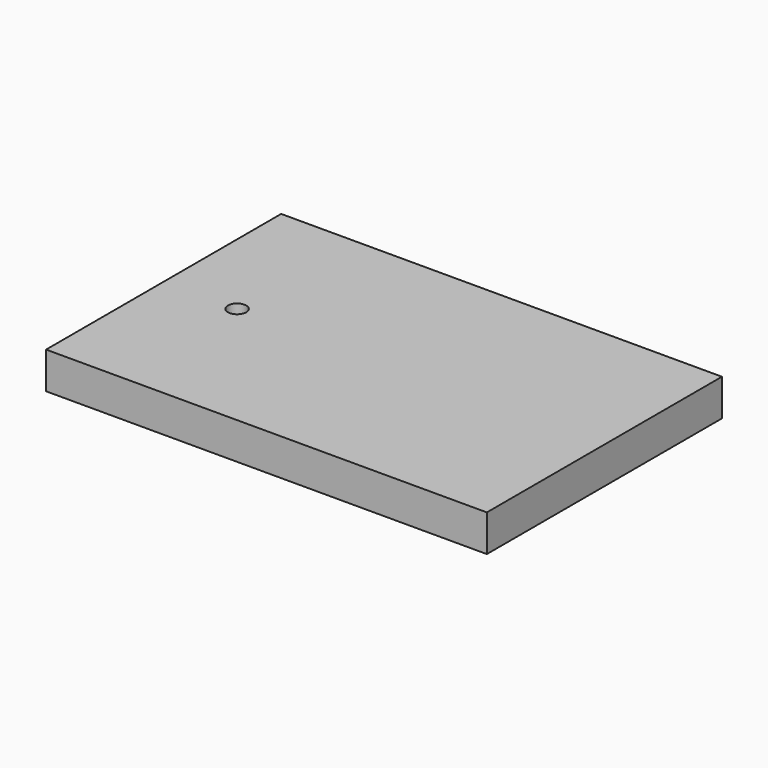
from build123d import *

# Parameters (mm, degrees)
F0_W     = 152.4
F0_H     = 101.6
F1_DEPTH = 12.7
F2_R     = 3.175
F3_DEPTH = 12.701
F4_R     = 4.7625
F5_DEPTH = 6.35


with BuildPart() as f1:
    # F0 (on Top) → F1 (new body)
    with BuildSketch(Plane.XY):
        with Locations((1.961969, -5.568703)):
            Rectangle(F0_W, F0_H)
    extrude(amount=F1_DEPTH)

    # F2 (on face) → F3 (cut, through all)
    with BuildSketch(Plane.XY.offset(12.7)):
        with Locations((-48.838031, -5.568703)):
            Circle(F2_R)
    extrude(amount=-F3_DEPTH, mode=Mode.SUBTRACT)

    # F4 (on face) → F5 (cut)
    with BuildSketch(Plane(origin=(0, 0, 0), x_dir=(1, 0, 0), z_dir=(0, 0, -1))):
        with Locations((-48.838031, 5.568703)):
            Circle(F4_R)
    extrude(amount=-F5_DEPTH, mode=Mode.SUBTRACT)


solid = f1.part
